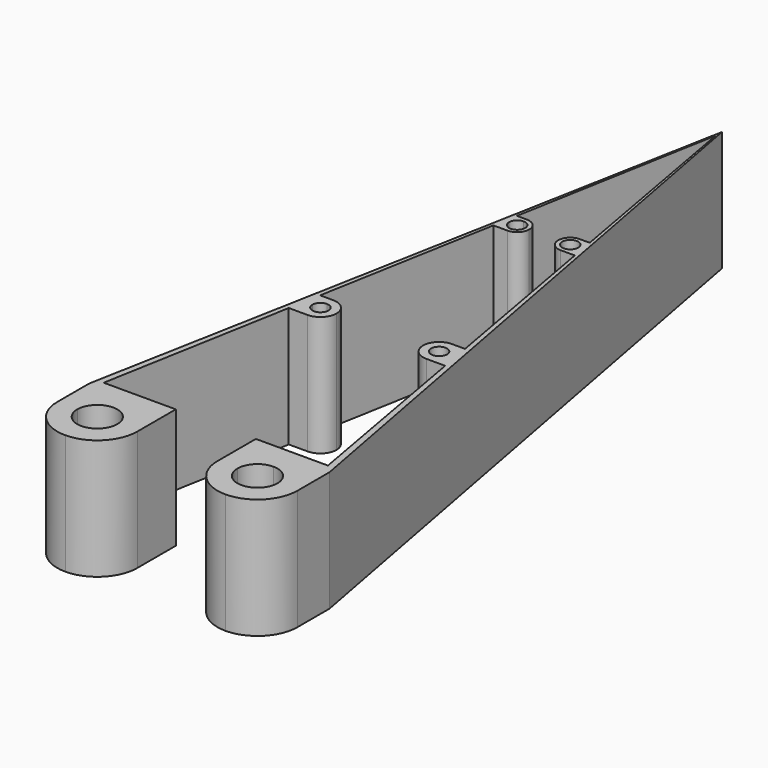
from build123d import *

# Parameters (mm, degrees)
F1_DEPTH = 15


with BuildPart() as f1:
    # F0 (on Top) → F1 (new body)
    with BuildSketch(Plane.XY):
        Polygon((15, 80), (0, 0), (1, 0), (10, 0), (10, 1), (1, 1), (5.234291, 24.591051), (5.593266, 26.591051), (5.95224, 28.591051), (9.9173, 50.682103), (10.186531, 52.182103), (10.455762, 53.682103), (15, 79), (19.544238, 53.682103), (19.813469, 52.182103), (20.0827, 50.682103), (24.04776, 28.591051), (24.406734, 26.591051), (24.765709, 24.591051), (29, 1), (20, 1), (20, 0), (25, 0), (30, 0), align=None)
        with BuildLine():
            Line((1, 0), (0, 0))
            Line((0, 0), (0, -5))
            Line((0, -5), (2.5, -5))
            ThreePointArc((2.5, -5), (5, -2.5), (7.5, -5))
            Line((7.5, -5), (10, -5))
            Line((10, -5), (10, 0))
            Line((10, 0), (1, 0))
        make_face()
        with BuildLine():
            Line((2.5, -5), (0, -5))
            ThreePointArc((0, -5), (1.464466, -8.535534), (5, -10))
            Line((5, -10), (5, -7.5))
            ThreePointArc((5, -7.5), (3.232233, -6.767767), (2.5, -5))
        make_face()
        with BuildLine():
            Line((30, -5), (30, 0))
            Line((30, 0), (25, 0))
            Line((25, 0), (25, -2.5))
            ThreePointArc((25, -2.5), (26.767767, -3.232233), (27.5, -5))
            Line((27.5, -5), (30, -5))
        make_face()
        with BuildLine():
            Line((5, -7.5), (5, -10))
            ThreePointArc((5, -10), (8.535534, -8.535534), (10, -5))
            Line((10, -5), (7.5, -5))
            ThreePointArc((7.5, -5), (6.767767, -6.767767), (5, -7.5))
        make_face()
        with BuildLine():
            Line((25, -2.5), (25, 0))
            Line((25, 0), (20, 0))
            Line((20, 0), (20, -5))
            Line((20, -5), (22.5, -5))
            ThreePointArc((22.5, -5), (23.232233, -3.232233), (25, -2.5))
        make_face()
        with BuildLine():
            ThreePointArc((25, -10), (28.535534, -8.535534), (30, -5))
            Line((30, -5), (27.5, -5))
            ThreePointArc((27.5, -5), (26.767767, -6.767767), (25, -7.5))
            Line((25, -7.5), (25, -10))
        make_face()
        with BuildLine():
            ThreePointArc((20, -5), (21.464466, -8.535534), (25, -10))
            Line((25, -10), (25, -7.5))
            ThreePointArc((25, -7.5), (23.232233, -6.767767), (22.5, -5))
            Line((22.5, -5), (20, -5))
        make_face()
        with BuildLine():
            Line((5.593266, 26.591051), (5.234291, 24.591051))
            Line((5.234291, 24.591051), (7.593266, 24.591051))
            Line((7.593266, 24.591051), (7.593266, 25.591051))
            ThreePointArc((7.593266, 25.591051), (6.886159, 25.883945), (6.593266, 26.591051))
            Line((6.593266, 26.591051), (5.593266, 26.591051))
        make_face()
        with BuildLine():
            Line((5.95224, 28.591051), (5.593266, 26.591051))
            Line((5.593266, 26.591051), (6.593266, 26.591051))
            ThreePointArc((6.593266, 26.591051), (6.886159, 27.298158), (7.593266, 27.591051))
            Line((7.593266, 27.591051), (7.593266, 28.591051))
            Line((7.593266, 28.591051), (5.95224, 28.591051))
        make_face()
        with BuildLine():
            Line((7.593266, 25.591051), (7.593266, 24.591051))
            ThreePointArc((7.593266, 24.591051), (9.007479, 25.176838), (9.593266, 26.591051))
            Line((9.593266, 26.591051), (8.593266, 26.591051))
            ThreePointArc((8.593266, 26.591051), (8.300372, 25.883945), (7.593266, 25.591051))
        make_face()
        with BuildLine():
            Line((8.593266, 26.591051), (9.593266, 26.591051))
            ThreePointArc((9.593266, 26.591051), (9.007479, 28.005265), (7.593266, 28.591051))
            Line((7.593266, 28.591051), (7.593266, 27.591051))
            ThreePointArc((7.593266, 27.591051), (8.300372, 27.298158), (8.593266, 26.591051))
        make_face()
        with BuildLine():
            Line((22.406734, 24.591051), (24.765709, 24.591051))
            Line((24.765709, 24.591051), (24.406734, 26.591051))
            Line((24.406734, 26.591051), (23.406734, 26.591051))
            ThreePointArc((23.406734, 26.591051), (22.406734, 25.591051), (21.406734, 26.591051))
            Line((21.406734, 26.591051), (20.406734, 26.591051))
            ThreePointArc((20.406734, 26.591051), (20.992521, 25.176838), (22.406734, 24.591051))
        make_face()
        with BuildLine():
            Line((10.186531, 52.182103), (9.9173, 50.682103))
            Line((9.9173, 50.682103), (11.686531, 50.682103))
            Line((11.686531, 50.682103), (11.686531, 51.182103))
            ThreePointArc((11.686531, 51.182103), (10.979424, 51.474996), (10.686531, 52.182103))
            Line((10.686531, 52.182103), (10.186531, 52.182103))
        make_face()
        with BuildLine():
            Line((23.406734, 26.591051), (24.406734, 26.591051))
            Line((24.406734, 26.591051), (24.04776, 28.591051))
            Line((24.04776, 28.591051), (22.406734, 28.591051))
            ThreePointArc((22.406734, 28.591051), (20.992521, 28.005265), (20.406734, 26.591051))
            Line((20.406734, 26.591051), (21.406734, 26.591051))
            ThreePointArc((21.406734, 26.591051), (22.406734, 27.591051), (23.406734, 26.591051))
        make_face()
        with BuildLine():
            Line((10.455762, 53.682103), (10.186531, 52.182103))
            Line((10.186531, 52.182103), (10.686531, 52.182103))
            ThreePointArc((10.686531, 52.182103), (10.979424, 52.88921), (11.686531, 53.182103))
            Line((11.686531, 53.182103), (11.686531, 53.682103))
            Line((11.686531, 53.682103), (10.455762, 53.682103))
        make_face()
        with BuildLine():
            Line((11.686531, 51.182103), (11.686531, 50.682103))
            ThreePointArc((11.686531, 50.682103), (12.747191, 51.121443), (13.186531, 52.182103))
            Line((13.186531, 52.182103), (12.686531, 52.182103))
            ThreePointArc((12.686531, 52.182103), (12.393638, 51.474996), (11.686531, 51.182103))
        make_face()
        with BuildLine():
            Line((12.686531, 52.182103), (13.186531, 52.182103))
            ThreePointArc((13.186531, 52.182103), (12.747191, 53.242763), (11.686531, 53.682103))
            Line((11.686531, 53.682103), (11.686531, 53.182103))
            ThreePointArc((11.686531, 53.182103), (12.393638, 52.88921), (12.686531, 52.182103))
        make_face()
        with BuildLine():
            Line((18.313469, 50.682103), (20.0827, 50.682103))
            Line((20.0827, 50.682103), (19.813469, 52.182103))
            Line((19.813469, 52.182103), (19.313469, 52.182103))
            ThreePointArc((19.313469, 52.182103), (18.313469, 51.182103), (17.313469, 52.182103))
            Line((17.313469, 52.182103), (16.813469, 52.182103))
            ThreePointArc((16.813469, 52.182103), (17.252809, 51.121443), (18.313469, 50.682103))
        make_face()
        with BuildLine():
            Line((19.313469, 52.182103), (19.813469, 52.182103))
            Line((19.813469, 52.182103), (19.544238, 53.682103))
            Line((19.544238, 53.682103), (18.313469, 53.682103))
            ThreePointArc((18.313469, 53.682103), (17.252809, 53.242763), (16.813469, 52.182103))
            Line((16.813469, 52.182103), (17.313469, 52.182103))
            ThreePointArc((17.313469, 52.182103), (18.313469, 53.182103), (19.313469, 52.182103))
        make_face()
        with BuildLine():
            Line((5.593266, 26.591051), (5.234291, 24.591051))
            Line((5.234291, 24.591051), (7.593266, 24.591051))
            Line((7.593266, 24.591051), (7.593266, 25.591051))
            ThreePointArc((7.593266, 25.591051), (6.886159, 25.883945), (6.593266, 26.591051))
            Line((6.593266, 26.591051), (5.593266, 26.591051))
        make_face()
        with BuildLine():
            Line((8.593266, 26.591051), (9.593266, 26.591051))
            ThreePointArc((9.593266, 26.591051), (9.007479, 28.005265), (7.593266, 28.591051))
            Line((7.593266, 28.591051), (7.593266, 27.591051))
            ThreePointArc((7.593266, 27.591051), (8.300372, 27.298158), (8.593266, 26.591051))
        make_face()
        with BuildLine():
            Line((5.95224, 28.591051), (5.593266, 26.591051))
            Line((5.593266, 26.591051), (6.593266, 26.591051))
            ThreePointArc((6.593266, 26.591051), (6.886159, 27.298158), (7.593266, 27.591051))
            Line((7.593266, 27.591051), (7.593266, 28.591051))
            Line((7.593266, 28.591051), (5.95224, 28.591051))
        make_face()
        with BuildLine():
            Line((5.95224, 28.591051), (5.593266, 26.591051))
            Line((5.593266, 26.591051), (6.593266, 26.591051))
            ThreePointArc((6.593266, 26.591051), (6.886159, 27.298158), (7.593266, 27.591051))
            Line((7.593266, 27.591051), (7.593266, 28.591051))
            Line((7.593266, 28.591051), (5.95224, 28.591051))
        make_face()
        with BuildLine():
            Line((23.406734, 26.591051), (24.406734, 26.591051))
            Line((24.406734, 26.591051), (24.04776, 28.591051))
            Line((24.04776, 28.591051), (22.406734, 28.591051))
            ThreePointArc((22.406734, 28.591051), (20.992521, 28.005265), (20.406734, 26.591051))
            Line((20.406734, 26.591051), (21.406734, 26.591051))
            ThreePointArc((21.406734, 26.591051), (22.406734, 27.591051), (23.406734, 26.591051))
        make_face()
        with BuildLine():
            Line((22.406734, 24.591051), (24.765709, 24.591051))
            Line((24.765709, 24.591051), (24.406734, 26.591051))
            Line((24.406734, 26.591051), (23.406734, 26.591051))
            ThreePointArc((23.406734, 26.591051), (22.406734, 25.591051), (21.406734, 26.591051))
            Line((21.406734, 26.591051), (20.406734, 26.591051))
            ThreePointArc((20.406734, 26.591051), (20.992521, 25.176838), (22.406734, 24.591051))
        make_face()
        with BuildLine():
            Line((10.186531, 52.182103), (9.9173, 50.682103))
            Line((9.9173, 50.682103), (11.686531, 50.682103))
            Line((11.686531, 50.682103), (11.686531, 51.182103))
            ThreePointArc((11.686531, 51.182103), (10.979424, 51.474996), (10.686531, 52.182103))
            Line((10.686531, 52.182103), (10.186531, 52.182103))
        make_face()
        with BuildLine():
            Line((10.186531, 52.182103), (9.9173, 50.682103))
            Line((9.9173, 50.682103), (11.686531, 50.682103))
            Line((11.686531, 50.682103), (11.686531, 51.182103))
            ThreePointArc((11.686531, 51.182103), (10.979424, 51.474996), (10.686531, 52.182103))
            Line((10.686531, 52.182103), (10.186531, 52.182103))
        make_face()
        with BuildLine():
            Line((10.455762, 53.682103), (10.186531, 52.182103))
            Line((10.186531, 52.182103), (10.686531, 52.182103))
            ThreePointArc((10.686531, 52.182103), (10.979424, 52.88921), (11.686531, 53.182103))
            Line((11.686531, 53.182103), (11.686531, 53.682103))
            Line((11.686531, 53.682103), (10.455762, 53.682103))
        make_face()
        with BuildLine():
            Line((10.455762, 53.682103), (10.186531, 52.182103))
            Line((10.186531, 52.182103), (10.686531, 52.182103))
            ThreePointArc((10.686531, 52.182103), (10.979424, 52.88921), (11.686531, 53.182103))
            Line((11.686531, 53.182103), (11.686531, 53.682103))
            Line((11.686531, 53.682103), (10.455762, 53.682103))
        make_face()
        with BuildLine():
            Line((19.313469, 52.182103), (19.813469, 52.182103))
            Line((19.813469, 52.182103), (19.544238, 53.682103))
            Line((19.544238, 53.682103), (18.313469, 53.682103))
            ThreePointArc((18.313469, 53.682103), (17.252809, 53.242763), (16.813469, 52.182103))
            Line((16.813469, 52.182103), (17.313469, 52.182103))
            ThreePointArc((17.313469, 52.182103), (18.313469, 53.182103), (19.313469, 52.182103))
        make_face()
        with BuildLine():
            Line((18.313469, 50.682103), (20.0827, 50.682103))
            Line((20.0827, 50.682103), (19.813469, 52.182103))
            Line((19.813469, 52.182103), (19.313469, 52.182103))
            ThreePointArc((19.313469, 52.182103), (18.313469, 51.182103), (17.313469, 52.182103))
            Line((17.313469, 52.182103), (16.813469, 52.182103))
            ThreePointArc((16.813469, 52.182103), (17.252809, 51.121443), (18.313469, 50.682103))
        make_face()
    extrude(amount=F1_DEPTH)


solid = f1.part
